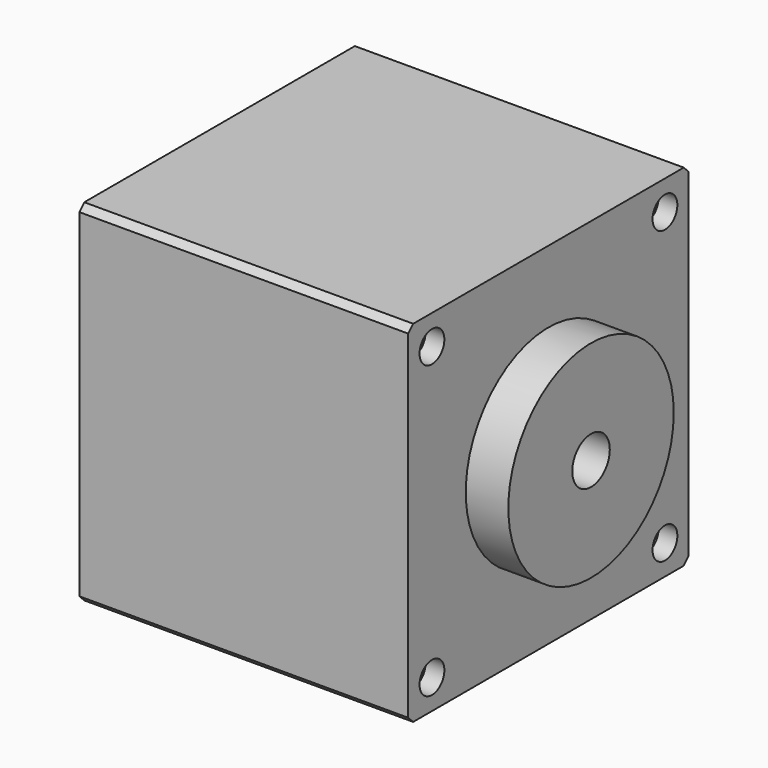
from build123d import *

# Parameters (mm, degrees)
F0_R     = 11
F1_DEPTH = 17.5
F0_R_2   = 2.495
F2_DEPTH = 17.5
F3_DEPTH = 22.03
F6_D     = 3.3
F6_DEPTH = 2
F6_TIP   = 0.9914200214
F7_D     = 3.3
F7_DEPTH = 2
F7_TIP   = 0.9914200214
F8_D     = 2
F8_DEPTH = 2.6
F8_TIP   = 0.600860619


with BuildPart() as f1:
    # F0 (on Right) → F1 (new body, symmetric)
    with BuildSketch(Plane.YZ):
        Polygon((-17.9930978003, -18.65), (17.9930978003, -18.65), (18.65, -17.9930978003), (18.65, 17.9930978003), (17.9930978003, 18.65), (-17.9930978003, 18.65), (-18.65, 17.9930978003), (-18.65, -17.9930978003), align=None)
        Circle(F0_R, mode=Mode.SUBTRACT)
    extrude(amount=F1_DEPTH, both=True)

    # F0 (on Right) → F2 (join, through all)
    with BuildSketch(Plane.YZ):
        Circle(F0_R)
        Circle(F0_R_2, mode=Mode.SUBTRACT)
    extrude(amount=-F2_DEPTH)

    # F0 (on Right) → F3 (join)
    with BuildSketch(Plane.YZ):
        Circle(F0_R)
        Circle(F0_R_2, mode=Mode.SUBTRACT)
    extrude(amount=F3_DEPTH)

    # F6
    with Locations(Plane.YZ.offset(17.5)):
        with Locations((15.495, 15.495), (-15.495, 15.495), (15.495, -15.495), (-15.495, -15.495)):
            Hole(F6_D / 2, depth=F6_DEPTH)
            with Locations((0, 0, -(F6_DEPTH + F6_TIP / 2))):  # 118° drill point
                Cone(0, F6_D / 2, F6_TIP, mode=Mode.SUBTRACT)

    # F7
    with Locations(Plane(origin=(-17.5, 0, 0), x_dir=(0, -1, 0), z_dir=(-1, 0, 0))):
        with Locations((-15.495, 15.495), (-15.495, -15.495), (15.495, -15.495), (15.495, 15.495)):
            Hole(F7_D / 2, depth=F7_DEPTH)
            with Locations((0, 0, -(F7_DEPTH + F7_TIP / 2))):  # 118° drill point
                Cone(0, F7_D / 2, F7_TIP, mode=Mode.SUBTRACT)

    # F8
    with Locations(Plane(origin=(-17.5, 0, 0), x_dir=(0, -1, 0), z_dir=(-1, 0, 0))):
        with Locations((-9.5, 0), (9.5, 0)):
            Hole(F8_D / 2, depth=F8_DEPTH)
            with Locations((0, 0, -(F8_DEPTH + F8_TIP / 2))):  # 118° drill point
                Cone(0, F8_D / 2, F8_TIP, mode=Mode.SUBTRACT)


solid = f1.part
